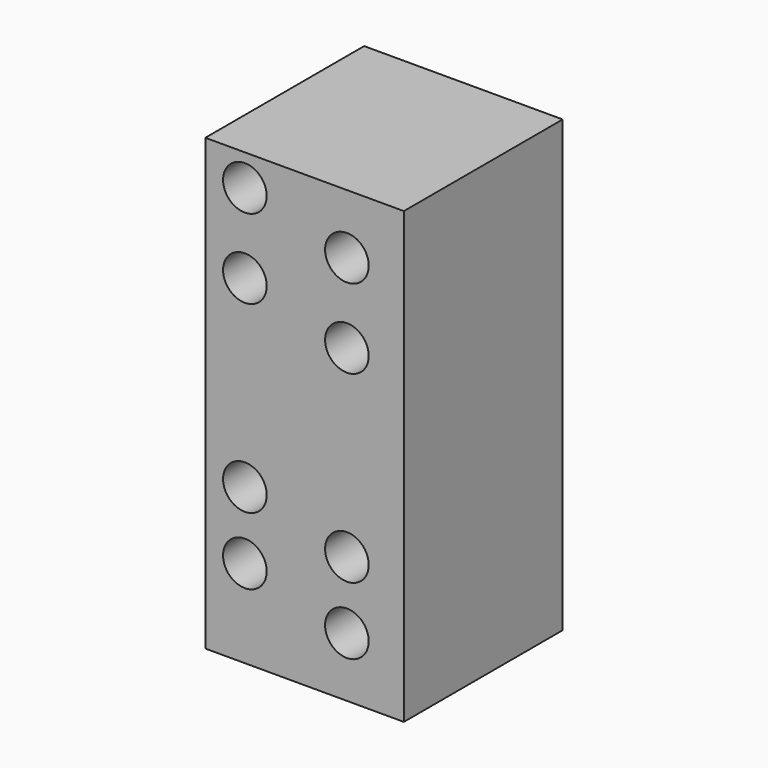
from build123d import *

# Parameters (mm, degrees)
F0_W     = 25.4
F0_H     = 57.538781
F0_R     = 2.791495
F1_DEPTH = 25.4


with BuildPart() as f1:
    # F0 (on Front) → F1 (new body)
    with BuildSketch(Plane.XZ):
        with Locations((-51.836848, 1.027928)):
            Rectangle(F0_W, F0_H)
        with Locations((-59.477136, -16.500482)):
            Circle(F0_R, mode=Mode.SUBTRACT)
        with Locations((-59.477136, -7.9019)):
            Circle(F0_R, mode=Mode.SUBTRACT)
        with Locations((-46.422863, -20.121462)):
            Circle(F0_R, mode=Mode.SUBTRACT)
        with Locations((-46.422863, -11.52288)):
            Circle(F0_R, mode=Mode.SUBTRACT)
        with Locations((-59.477136, 15.638299)):
            Circle(F0_R, mode=Mode.SUBTRACT)
        with Locations((-59.477136, 25.798299)):
            Circle(F0_R, mode=Mode.SUBTRACT)
        with Locations((-46.422863, 12.017319)):
            Circle(F0_R, mode=Mode.SUBTRACT)
        with Locations((-46.422863, 22.177319)):
            Circle(F0_R, mode=Mode.SUBTRACT)
    extrude(amount=F1_DEPTH)


solid = f1.part
